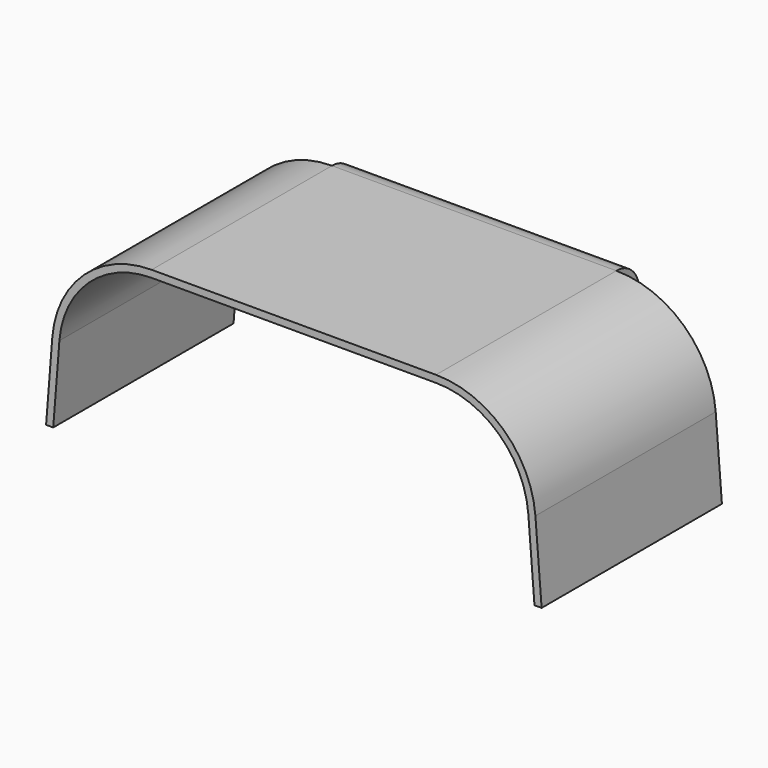
from build123d import *

# Parameters (mm, degrees)
F4_W = 99.84846
F4_H = 2.5


with BuildPart() as f3:
    # F3: sweep along a path in F2
    with BuildLine(Plane.YZ) as f3_path:
        Line((0, 60), (79.139297, 60))
    # F0 (on Front) → F3 (sweep)
    with BuildSketch(Plane.XZ):
        with BuildLine():
            Line((-84.816337, 27.746068), (-87, 0))
            Line((-87, 0), (-84.49227, 0))
            Line((-84.49227, 0), (-82.324044, 27.549921))
            ThreePointArc((-82.324044, 27.549921), (-71.985255, 48.865482), (-49.92423, 57.5))
            Line((-49.92423, 57.5), (0, 57.5))
            Line((0, 57.5), (49.92423, 57.5))
            ThreePointArc((49.92423, 57.5), (71.985255, 48.865482), (82.324044, 27.549921))
            Line((82.324044, 27.549921), (84.49227, 0))
            Line((84.49227, 0), (87, 0))
            Line((87, 0), (84.816337, 27.746068))
            ThreePointArc((84.816337, 27.746068), (73.682256, 50.701288), (49.92423, 60))
            Line((49.92423, 60), (0, 60))
            Line((0, 60), (-49.92423, 60))
            ThreePointArc((-49.92423, 60), (-73.682256, 50.701288), (-84.816337, 27.746068))
        make_face()
    sweep(path=f3_path.line)

    # F5: sweep along a path in F2
    with BuildLine(Plane.YZ) as f5_path:
        ThreePointArc((79.139297, 60), (85.862965, 57.402181), (89.093259, 50.958458))
        Line((89.093259, 50.958458), (94, 0))
    # F4 (on face) → F5 (sweep)
    with BuildSketch(Plane(origin=(0, 79.139297, 0), x_dir=(-1, 0, 0), z_dir=(0, 1, 0))):
        with Locations((0, 58.75)):
            Rectangle(F4_W, F4_H)
    sweep(path=f5_path.line)


solid = f3.part
